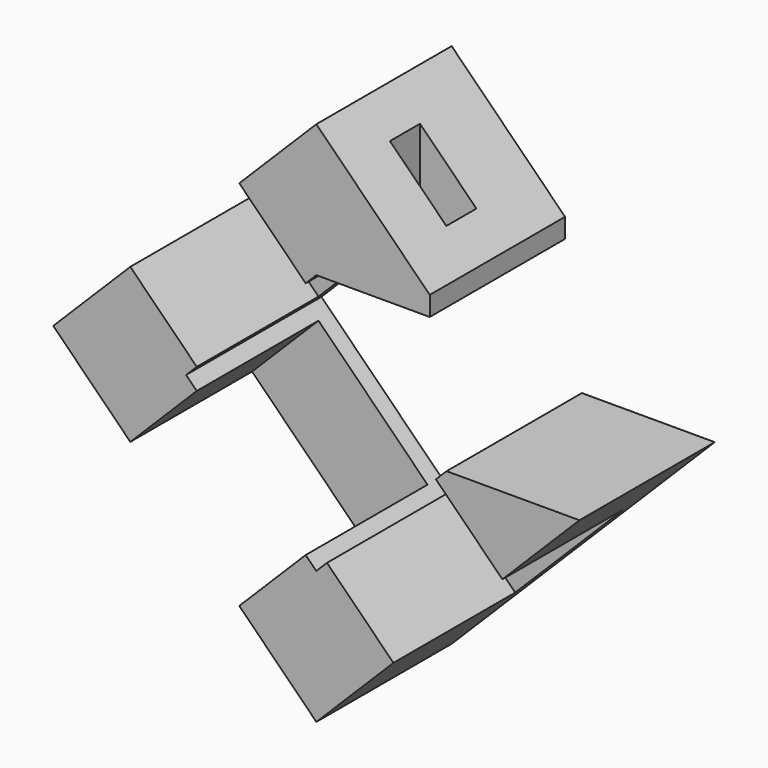
from build123d import *

# Parameters (mm, degrees)
F1_DEPTH = 45
F3_DEPTH = 40.5
F4_W     = 15
F4_H     = 10
F5_DEPTH = 30


with BuildPart() as f1:
    # F0 (on Front) → F1 (new body)
    with BuildSketch(Plane.XZ):
        Polygon((34.648232, 34.648232), (0, 0), (-34.648232, 34.648232), (0, 69.296465), (30.173114, 69.296465), (30.173114, 74.47869), (0, 104.651804), (-70.003571, 34.648232), (0, -35.355339), (70.003571, 34.648232), align=None)
    extrude(amount=F1_DEPTH)

    # F2 (on face) → F3 (cut)
    with BuildSketch(Plane.XZ.offset(45)):
        Polygon((-20.506097, 84.145707), (-49.497475, 55.154329), (-31.819805, 37.476659), (-2.828427, 66.468037), align=None)
        Polygon((-2.828427, 2.828427), (-31.819805, 31.819805), (-49.497475, 14.142136), (-20.506097, -14.849242), align=None)
        Polygon((31.819805, 31.819805), (2.828427, 2.828427), (20.506097, -14.849242), (49.497475, 14.142136), align=None)
    extrude(amount=-F3_DEPTH, mode=Mode.SUBTRACT)

    # F4 (on face) → F5 (cut)
    with BuildSketch(Plane(origin=(0, 0, 69.296465), x_dir=(1, 0, 0), z_dir=(0, 0, -1))):
        with Locations((15.086557, 25)):
            Rectangle(F4_W, F4_H)
    extrude(amount=-F5_DEPTH, mode=Mode.SUBTRACT)


solid = f1.part
